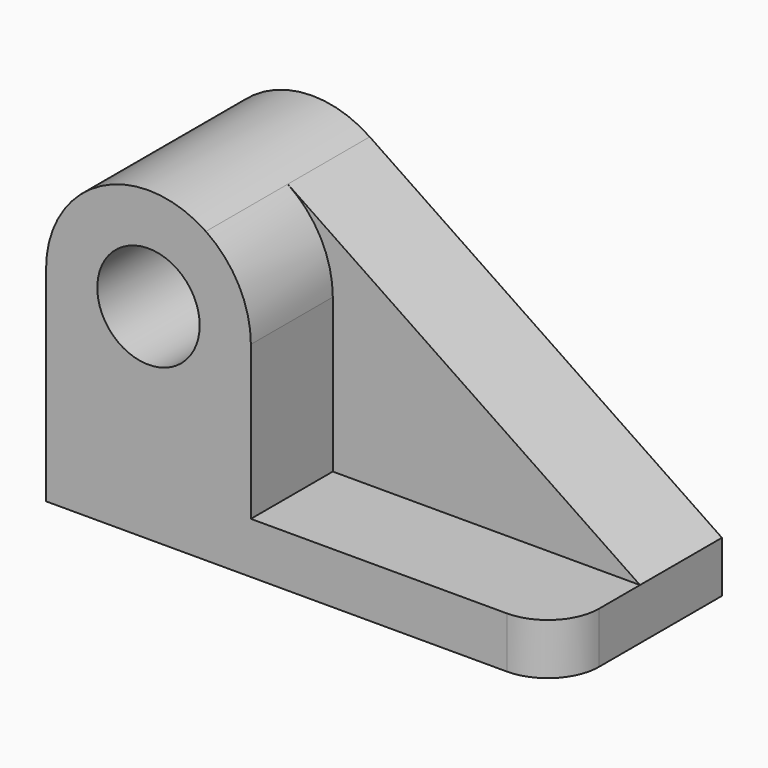
from build123d import *

# Parameters (mm, degrees)
F0_R     = 12.7
F1_DEPTH = 25.4
F2_R     = 12.7
F3_DEPTH = 25.4
F4_R     = 12.7


with BuildPart() as f1:
    # F0 (on Front) → F1 (new body)
    with BuildSketch(Plane.XZ):
        with BuildLine():
            Line((60.7568, 15.897267), (-26.605327, 75.031596))
            ThreePointArc((-26.605327, 75.031596), (-52.749459, 76.433866), (-66.2432, 53.997267))
            Line((-66.2432, 53.997267), (-66.2432, 3.197267))
            Line((-66.2432, 3.197267), (60.7568, 3.197267))
            Line((60.7568, 3.197267), (60.7568, 15.897267))
        make_face()
        with Locations((-40.8432, 53.997267)):
            Circle(F0_R, mode=Mode.SUBTRACT)
    extrude(amount=F1_DEPTH)

    # F2 (on face) → F3 (join)
    with BuildSketch(Plane.XZ.offset(25.4)):
        with BuildLine():
            Line((-15.4432, 15.897267), (-15.4432, 53.997267))
            ThreePointArc((-15.4432, 53.997267), (-18.406601, 65.903527), (-26.605327, 75.031596))
            ThreePointArc((-26.605327, 75.031596), (-52.749459, 76.433866), (-66.2432, 53.997267))
            Line((-66.2432, 53.997267), (-66.2432, 15.897267))
            Line((-66.2432, 15.897267), (-66.2432, 3.197267))
            Line((-66.2432, 3.197267), (60.7568, 3.197267))
            Line((60.7568, 3.197267), (60.7568, 15.897267))
            Line((60.7568, 15.897267), (-15.4432, 15.897267))
        make_face()
        with Locations((-40.8432, 53.997267)):
            Circle(F2_R, mode=Mode.SUBTRACT)
    extrude(amount=F3_DEPTH)

    # F4
    f4_edges = [f1.edges().sort_by_distance(p)[0] for p in [
        (60.7568, -50.8, 9.547267),
    ]]
    fillet(f4_edges, radius=F4_R)


solid = f1.part
